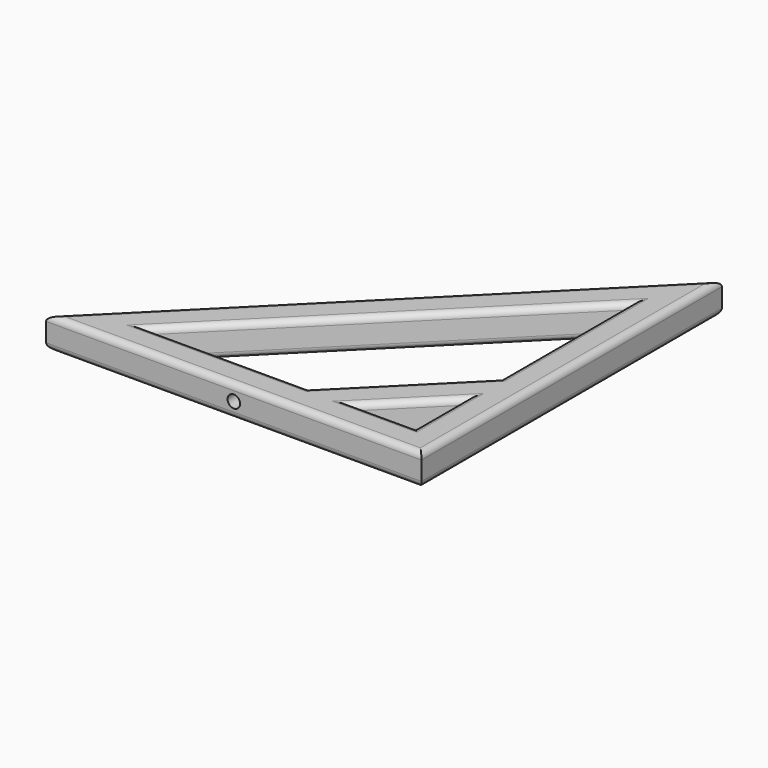
from build123d import *

# Parameters (mm, degrees)
F1_DEPTH = 6.35
F3_R     = 1.27
F2_R     = 1.27
F4_DEPTH = 5.08


with BuildPart() as f1:
    # F0 (on Top) → F1 (new body)
    with BuildSketch(Plane.XY):
        Polygon((24.178737, 52.94433), (-52.021263, -23.25567), (24.178737, -23.25567), align=None)
        Polygon((17.828737, -16.90567), (5.128737, -16.90567), (17.828737, -4.20567), align=None, mode=Mode.SUBTRACT)
        Polygon((-3.851519, -16.90567), (-36.691007, -16.90567), (17.828737, 37.614073), (17.828737, 4.774586), align=None, mode=Mode.SUBTRACT)
    extrude(amount=F1_DEPTH)

    # F3
    f3_edges = [f1.edges().sort_by_distance(p)[0] for p in [
        (-13.921263, 14.84433, 6.35),
        (-13.921263, -23.25567, 6.35),
        (24.178737, 14.84433, 6.35),
        (11.478737, -16.90567, 6.35),
        (11.478737, -10.55567, 6.35),
        (17.828737, -10.55567, 6.35),
        (17.828737, 21.19433, 6.35),
        (6.988609, -6.065542, 6.35),
        (-20.271263, -16.90567, 6.35),
        (-9.431135, 10.354202, 6.35),
        (-13.921263, -23.25567, 0),
        (-13.921263, 14.84433, 0),
        (24.178737, 14.84433, 0),
        (11.478737, -16.90567, 0),
        (11.478737, -10.55567, 0),
        (17.828737, -10.55567, 0),
        (17.828737, 21.19433, 0),
        (6.988609, -6.065542, 0),
        (-20.271263, -16.90567, 0),
        (-9.431135, 10.354202, 0),
    ]]
    fillet(f3_edges, radius=F3_R)

    # F2 (on face) → F4 (cut)
    with BuildSketch(Plane.XZ.offset(23.25567)):
        with Locations((-13.921263, 3.175)):
            Circle(F2_R)
    extrude(amount=-F4_DEPTH, mode=Mode.SUBTRACT)


solid = f1.part
